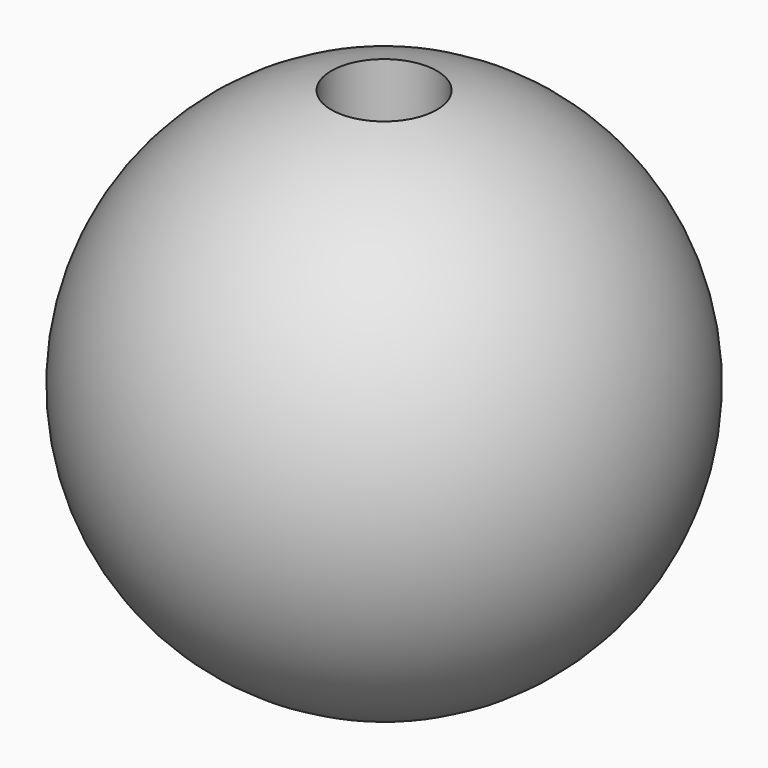
from build123d import *

# Parameters (mm, degrees)
F4_R     = 3.175
F5_DEPTH = 9.525


with BuildPart() as f2:
    # F0 (on Front) → F2 (revolve)
    with BuildSketch(Plane.XZ):
        with BuildLine():
            Line((0, -15.875), (0, 15.875))
            ThreePointArc((0, 15.875), (-15.875, 0), (0, -15.875))
        make_face()
    revolve(axis=Axis((0, 0, 0), (0, 0, 1)))

    # F4 (on offset) → F5 (cut)
    with BuildSketch(Plane.XY.offset(16.51)):
        Circle(F4_R)
    extrude(amount=-F5_DEPTH, mode=Mode.SUBTRACT)


solid = f2.part
